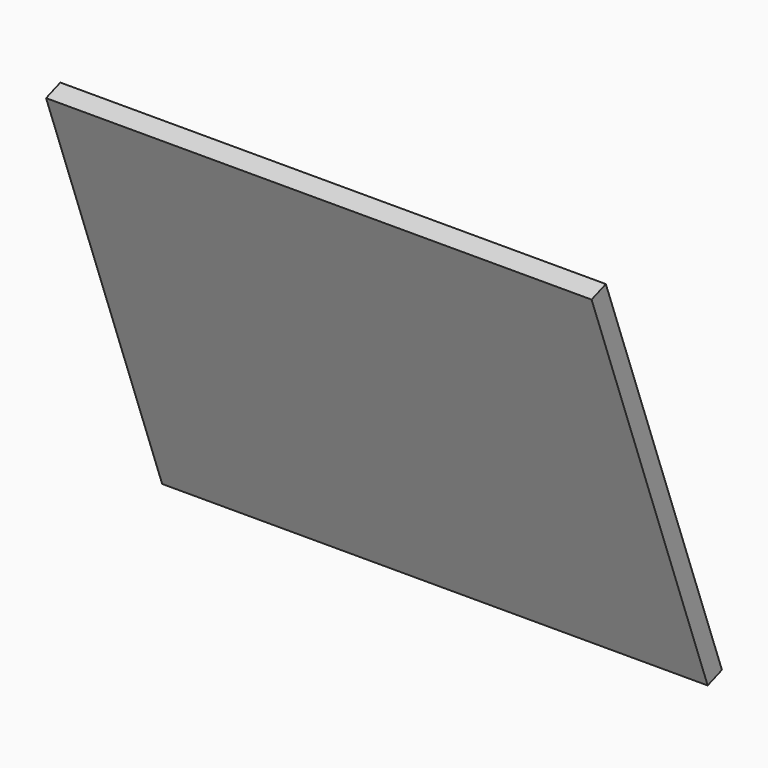
from build123d import *

# Parameters (mm, degrees)
F0_W     = 457.2
F0_H     = 355.6
F1_DEPTH = 15.875
F2_ANGLE = 70


with BuildPart() as f1:
    # F0 (on Top) → F1 (new body)
    with BuildSketch(Plane.XY):
        Rectangle(F0_W, F0_H)
    extrude(amount=F1_DEPTH)


with BuildPart() as f1_1:
    # F2: moved
    add(f1.part.rotate(Axis((0, 0, 0), (-1, 0, 0)), F2_ANGLE))


solid = f1_1.part
